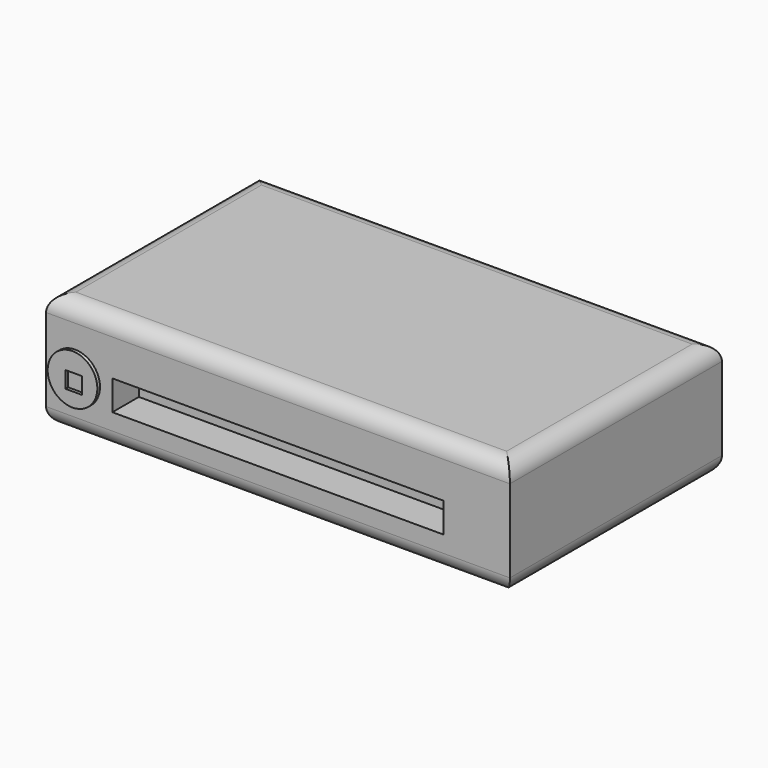
from build123d import *

# Parameters (mm, degrees)
F0_W      = 140
F0_H      = 80
F1_DEPTH  = 35
F2_W      = 100
F2_H      = 9
F3_DEPTH  = 10
F5_R      = 5
F6_R      = 5
F7_R      = 7.5
F8_DEPTH  = 1
F9_W      = 5
F9_H      = 5
F10_DEPTH = 1


with BuildPart() as f1:
    # F0 (on Top) → F1 (new body)
    with BuildSketch(Plane.XY):
        with Locations((5.1616433263, -11.4978505671)):
            Rectangle(F0_W, F0_H)
    extrude(amount=F1_DEPTH)

    # F2 (on face) → F3 (cut)
    with BuildSketch(Plane.XZ.offset(51.4978505671)):
        with Locations((5.1616433263, 14.5)):
            Rectangle(F2_W, F2_H)
    extrude(amount=-F3_DEPTH, mode=Mode.SUBTRACT)

    # F5
    f5_edges = [f1.edges().sort_by_distance(p)[0] for p in [
        (75.161643, -11.497851, 0),
        (5.161643, -51.497851, 0),
        (5.161643, 28.502149, 0),
        (-64.838357, -11.497851, 0),
    ]]
    fillet(f5_edges, radius=F5_R)

    # F6
    f6_edges = [f1.edges().sort_by_distance(p)[0] for p in [
        (-64.838357, -11.497851, 35),
        (5.161643, 28.502149, 35),
        (5.161643, -51.497851, 35),
        (75.161643, -11.497851, 35),
    ]]
    fillet(f6_edges, radius=F6_R)

    # F7 (on face) → F8 (join)
    with BuildSketch(Plane.XZ.offset(51.4978505671)):
        with Locations((-56.063328834, 15.5)):
            Circle(F7_R)
    extrude(amount=F8_DEPTH)

    # F9 (on face) → F10 (cut)
    with BuildSketch(Plane.XZ.offset(52.4978505671)):
        with Locations((-55.7435365021, 14.7882593423)):
            Rectangle(F9_W, F9_H)
    extrude(amount=-F10_DEPTH, mode=Mode.SUBTRACT)


solid = f1.part
